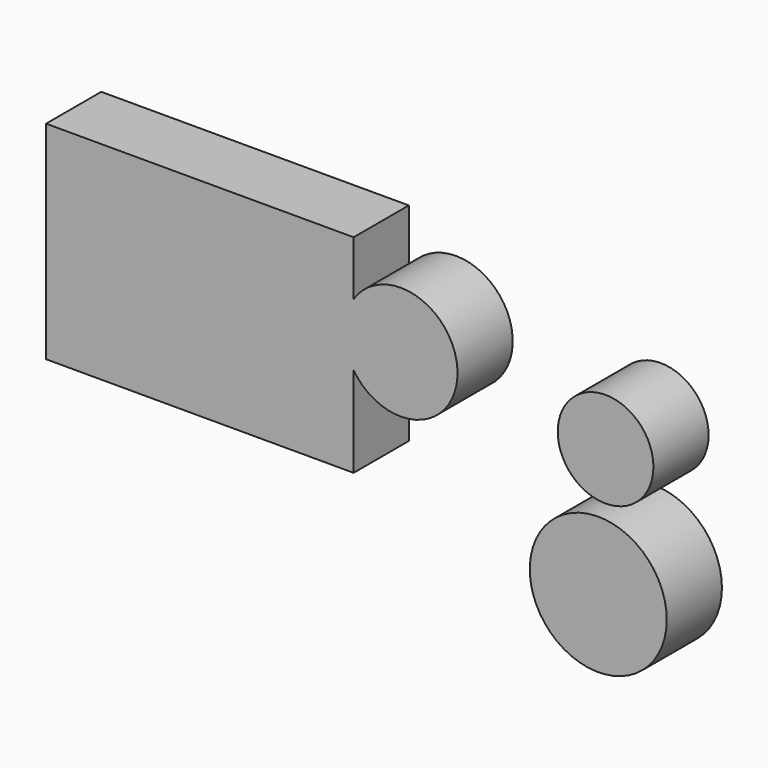
from build123d import *

# Parameters (mm, degrees)
F0_W     = 113.253998
F0_H     = 76.382157
F1_DEPTH = 25.4
F2_R     = 20.884563
F2_R_2   = 17.621826
F2_R_3   = 25.22089
F3_DEPTH = 25.4


with BuildPart() as f1:
    # F0 (on Front) → F1 (new body)
    with BuildSketch(Plane.XZ):
        with Locations((-47.233558, 44.400157)):
            Rectangle(F0_W, F0_H)
    extrude(amount=F1_DEPTH)

    # F2 (on Front) → F3 (join)
    with BuildSketch(Plane.XZ):
        with Locations((26.780285, 50.997782)):
            Circle(F2_R)
        with Locations((102.180563, 44.052508)):
            Circle(F2_R_2)
        with Locations((99.488527, -3.903688)):
            Circle(F2_R_3)
    extrude(amount=F3_DEPTH)


solid = f1.part
